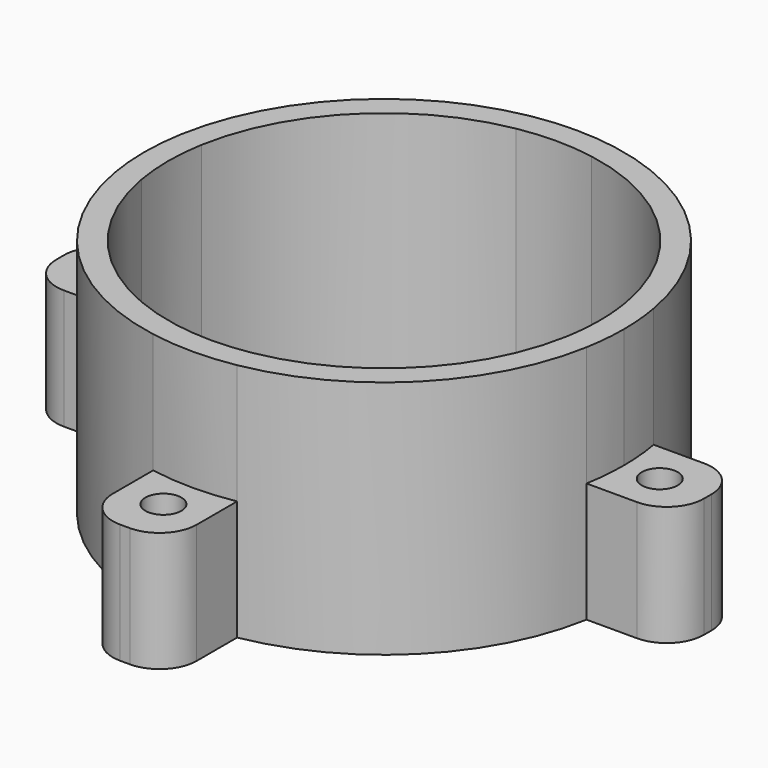
from build123d import *

# Parameters (mm, degrees)
F1_DEPTH = 20
F2_T     = -2
F3_DEPTH = 10
F4_R     = 3.1
F5_D     = 3


with BuildPart() as f1:
    # F0 (on Top) → F1 (new body)
    with BuildSketch(Plane.XY):
        with BuildLine():
            ThreePointArc((19.691369, -3.5), (19.922693, -1.756791), (20, 0))
            ThreePointArc((20, 0), (19.922693, 1.756791), (19.691369, 3.5))
            ThreePointArc((19.691369, 3.5), (14.142136, 14.142136), (3.5, 19.691369))
            ThreePointArc((3.5, 19.691369), (0, 20), (-3.5, 19.691369))
            ThreePointArc((-3.5, 19.691369), (-14.142136, 14.142136), (-19.691369, 3.5))
            ThreePointArc((-19.691369, 3.5), (-20, 0), (-19.691369, -3.5))
            ThreePointArc((-19.691369, -3.5), (-14.142136, -14.142136), (-3.5, -19.691369))
            ThreePointArc((-3.5, -19.691369), (0, -20), (3.5, -19.691369))
            ThreePointArc((3.5, -19.691369), (14.142136, -14.142136), (19.691369, -3.5))
        make_face()
    extrude(amount=F1_DEPTH)

    # F2
    f2_openings = [f1.faces().sort_by_distance(p)[0] for p in [
        (0, 0, 20),
        (0, 0, 0),
    ]]
    offset(amount=F2_T, openings=f2_openings)

    # F0 (on Top) → F3 (join)
    with BuildSketch(Plane.XY):
        with BuildLine():
            ThreePointArc((-19.691369, -3.5), (-20, 0), (-19.691369, 3.5))
            Line((-19.691369, 3.5), (-27, 3.5))
            Line((-27, 3.5), (-27, -3.5))
            Line((-27, -3.5), (-19.691369, -3.5))
        make_face()
        with BuildLine():
            ThreePointArc((-3.5, 19.691369), (0, 20), (3.5, 19.691369))
            Line((3.5, 19.691369), (3.5, 27))
            Line((3.5, 27), (-3.5, 27))
            Line((-3.5, 27), (-3.5, 19.691369))
        make_face()
        with BuildLine():
            ThreePointArc((19.691369, 3.5), (19.922693, 1.756791), (20, 0))
            ThreePointArc((20, 0), (19.922693, -1.756791), (19.691369, -3.5))
            Line((19.691369, -3.5), (27, -3.5))
            Line((27, -3.5), (27, 3.5))
            Line((27, 3.5), (19.691369, 3.5))
        make_face()
        with BuildLine():
            Line((3.5, -27), (3.5, -19.691369))
            ThreePointArc((3.5, -19.691369), (0, -20), (-3.5, -19.691369))
            Line((-3.5, -19.691369), (-3.5, -27))
            Line((-3.5, -27), (3.5, -27))
        make_face()
    extrude(amount=F3_DEPTH)

    # F4
    f4_edges = [f1.edges().sort_by_distance(p)[0] for p in [
        (27, 3.5, 5),
        (27, -3.5, 5),
        (3.5, 27, 5),
        (3.5, -27, 5),
        (-27, -3.5, 5),
        (-3.5, -27, 5),
        (-27, 3.5, 5),
        (-3.5, 27, 5),
    ]]
    fillet(f4_edges, radius=F4_R)

    # F5 (through all)
    with Locations(Plane(origin=(0, 0, 0), x_dir=(1, 0, 0), z_dir=(0, 0, -1))):
        with Locations((23, 0), (0, -23), (-23, 0), (0, 23)):
            Hole(F5_D / 2)


solid = f1.part
